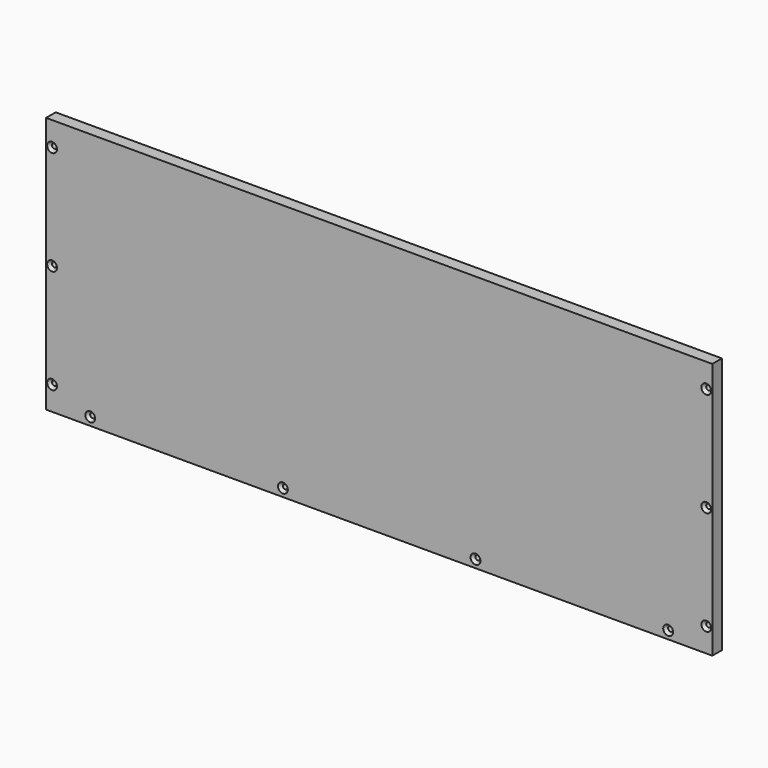
from build123d import *

# Parameters (mm, degrees)
F0_W           = 527.05
F0_H           = 203.2
F1_DEPTH       = 9.525
F3_D           = 3.7973
F3_DEPTH       = 13.49375
F3_CSINK_D     = 7.7978
F3_CSINK_ANGLE = 82
F3_TIP         = 1.1408240143


with BuildPart() as f1:
    # F0 (on Front) → F1 (new body)
    with BuildSketch(Plane.XZ):
        with Locations((-263.525, 101.6)):
            Rectangle(F0_W, F0_H)
    extrude(amount=F1_DEPTH)

    # F3
    with Locations(Plane.XZ.offset(9.525)):
        with Locations((-522.2875, 184.15), (-522.2875, 101.6), (-522.2875, 19.05), (-492.125, 6.35), (-339.725, 6.35), (-187.325, 6.35), (-34.925, 6.35), (-4.7625, 19.05), (-4.7625, 101.6), (-4.7625, 184.15)):
            CounterSinkHole(F3_D / 2, F3_CSINK_D / 2, depth=F3_DEPTH, counter_sink_angle=F3_CSINK_ANGLE)
            with Locations((0, 0, -(F3_DEPTH + F3_TIP / 2))):  # 118° drill point
                Cone(0, F3_D / 2, F3_TIP, mode=Mode.SUBTRACT)


solid = f1.part
